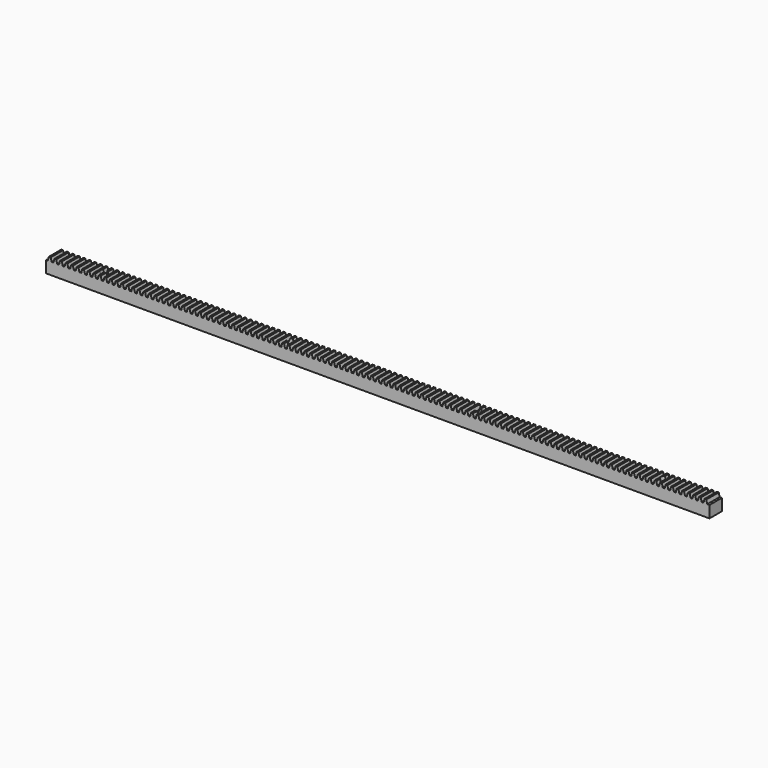
from build123d import *

# Parameters (mm, degrees)
F0_W     = 19.05
F0_H     = 14.5034
F1_DEPTH = 406.4
F3_DEPTH = 19.05
F5_D     = 7.9375


with BuildPart() as f1:
    # F0 (on Right) → F1 (new body, symmetric)
    with BuildSketch(Plane.YZ):
        Rectangle(F0_W, F0_H)
    extrude(amount=F1_DEPTH, both=True)

    # F2 (on face) → F3 (join)
    with BuildSketch(Plane.XZ.offset(9.525)):
        Polygon((-404.1648, 7.2517), (-399.5928, 7.2517), (-400.7612, 11.8237), (-402.9964, 11.8237), align=None)
        Polygon((-397.3576, 7.2517), (-392.7856, 7.2517), (-393.954, 11.8237), (-396.1892, 11.8237), align=None)
        Polygon((-390.5504, 7.2517), (-385.9784, 7.2517), (-387.1468, 11.8237), (-389.382, 11.8237), align=None)
        Polygon((-383.7432, 7.2517), (-379.1712, 7.2517), (-380.3396, 11.8237), (-382.5748, 11.8237), align=None)
        Polygon((-376.936, 7.2517), (-372.364, 7.2517), (-373.5324, 11.8237), (-375.7676, 11.8237), align=None)
        Polygon((-370.1288, 7.2517), (-365.5568, 7.2517), (-366.7252, 11.8237), (-368.9604, 11.8237), align=None)
        Polygon((-363.3216, 7.2517), (-358.7496, 7.2517), (-359.918, 11.8237), (-362.1532, 11.8237), align=None)
        Polygon((-356.5144, 7.2517), (-351.9424, 7.2517), (-353.1108, 11.8237), (-355.346, 11.8237), align=None)
        Polygon((-349.7072, 7.2517), (-345.1352, 7.2517), (-346.3036, 11.8237), (-348.5388, 11.8237), align=None)
        Polygon((-342.9, 7.2517), (-338.328, 7.2517), (-339.4964, 11.8237), (-341.7316, 11.8237), align=None)
        Polygon((-336.0928, 7.2517), (-331.5208, 7.2517), (-332.6892, 11.8237), (-334.9244, 11.8237), align=None)
        Polygon((-329.2856, 7.2517), (-324.7136, 7.2517), (-325.882, 11.8237), (-328.1172, 11.8237), align=None)
        Polygon((-322.4784, 7.2517), (-317.9064, 7.2517), (-319.0748, 11.8237), (-321.31, 11.8237), align=None)
        Polygon((-315.6712, 7.2517), (-311.0992, 7.2517), (-312.2676, 11.8237), (-314.5028, 11.8237), align=None)
        Polygon((-308.864, 7.2517), (-304.292, 7.2517), (-305.4604, 11.8237), (-307.6956, 11.8237), align=None)
        Polygon((-302.0568, 7.2517), (-297.4848, 7.2517), (-298.6532, 11.8237), (-300.8884, 11.8237), align=None)
        Polygon((-295.2496, 7.2517), (-290.6776, 7.2517), (-291.846, 11.8237), (-294.0812, 11.8237), align=None)
        Polygon((-288.4424, 7.2517), (-283.8704, 7.2517), (-285.0388, 11.8237), (-287.274, 11.8237), align=None)
        Polygon((-281.6352, 7.2517), (-277.0632, 7.2517), (-278.2316, 11.8237), (-280.4668, 11.8237), align=None)
        Polygon((-274.828, 7.2517), (-270.256, 7.2517), (-271.4244, 11.8237), (-273.6596, 11.8237), align=None)
        Polygon((-268.0208, 7.2517), (-263.4488, 7.2517), (-264.6172, 11.8237), (-266.8524, 11.8237), align=None)
        Polygon((-261.2136, 7.2517), (-256.6416, 7.2517), (-257.81, 11.8237), (-260.0452, 11.8237), align=None)
        Polygon((-254.4064, 7.2517), (-249.8344, 7.2517), (-251.0028, 11.8237), (-253.238, 11.8237), align=None)
        Polygon((-247.5992, 7.2517), (-243.0272, 7.2517), (-244.1956, 11.8237), (-246.4308, 11.8237), align=None)
        Polygon((-240.792, 7.2517), (-236.22, 7.2517), (-237.3884, 11.8237), (-239.6236, 11.8237), align=None)
        Polygon((-233.9848, 7.2517), (-229.4128, 7.2517), (-230.5812, 11.8237), (-232.8164, 11.8237), align=None)
        Polygon((-227.1776, 7.2517), (-222.6056, 7.2517), (-223.774, 11.8237), (-226.0092, 11.8237), align=None)
        Polygon((-220.3704, 7.2517), (-215.7984, 7.2517), (-216.9668, 11.8237), (-219.202, 11.8237), align=None)
        Polygon((-213.5632, 7.2517), (-208.9912, 7.2517), (-210.1596, 11.8237), (-212.3948, 11.8237), align=None)
        Polygon((-206.756, 7.2517), (-202.184, 7.2517), (-203.3524, 11.8237), (-205.5876, 11.8237), align=None)
        Polygon((-199.9488, 7.2517), (-195.3768, 7.2517), (-196.5452, 11.8237), (-198.7804, 11.8237), align=None)
        Polygon((-193.1416, 7.2517), (-188.5696, 7.2517), (-189.738, 11.8237), (-191.9732, 11.8237), align=None)
        Polygon((-186.3344, 7.2517), (-181.7624, 7.2517), (-182.9308, 11.8237), (-185.166, 11.8237), align=None)
        Polygon((-179.5272, 7.2517), (-174.9552, 7.2517), (-176.1236, 11.8237), (-178.3588, 11.8237), align=None)
        Polygon((-172.72, 7.2517), (-168.148, 7.2517), (-169.3164, 11.8237), (-171.5516, 11.8237), align=None)
        Polygon((-165.9128, 7.2517), (-161.3408, 7.2517), (-162.5092, 11.8237), (-164.7444, 11.8237), align=None)
        Polygon((-159.1056, 7.2517), (-154.5336, 7.2517), (-155.702, 11.8237), (-157.9372, 11.8237), align=None)
        Polygon((-152.2984, 7.2517), (-147.7264, 7.2517), (-148.8948, 11.8237), (-151.13, 11.8237), align=None)
        Polygon((-145.4912, 7.2517), (-140.9192, 7.2517), (-142.0876, 11.8237), (-144.3228, 11.8237), align=None)
        Polygon((-138.684, 7.2517), (-134.112, 7.2517), (-135.2804, 11.8237), (-137.5156, 11.8237), align=None)
        Polygon((-131.8768, 7.2517), (-127.3048, 7.2517), (-128.4732, 11.8237), (-130.7084, 11.8237), align=None)
        Polygon((-125.0696, 7.2517), (-120.4976, 7.2517), (-121.666, 11.8237), (-123.9012, 11.8237), align=None)
        Polygon((-118.2624, 7.2517), (-113.6904, 7.2517), (-114.8588, 11.8237), (-117.094, 11.8237), align=None)
        Polygon((-111.4552, 7.2517), (-106.8832, 7.2517), (-108.0516, 11.8237), (-110.2868, 11.8237), align=None)
        Polygon((-104.648, 7.2517), (-100.076, 7.2517), (-101.2444, 11.8237), (-103.4796, 11.8237), align=None)
        Polygon((-97.8408, 7.2517), (-93.2688, 7.2517), (-94.4372, 11.8237), (-96.6724, 11.8237), align=None)
        Polygon((-91.0336, 7.2517), (-86.4616, 7.2517), (-87.63, 11.8237), (-89.8652, 11.8237), align=None)
        Polygon((-84.2264, 7.2517), (-79.6544, 7.2517), (-80.8228, 11.8237), (-83.058, 11.8237), align=None)
        Polygon((-77.4192, 7.2517), (-72.8472, 7.2517), (-74.0156, 11.8237), (-76.2508, 11.8237), align=None)
        Polygon((-70.612, 7.2517), (-66.04, 7.2517), (-67.2084, 11.8237), (-69.4436, 11.8237), align=None)
        Polygon((-63.8048, 7.2517), (-59.2328, 7.2517), (-60.4012, 11.8237), (-62.6364, 11.8237), align=None)
        Polygon((-56.9976, 7.2517), (-52.4256, 7.2517), (-53.594, 11.8237), (-55.8292, 11.8237), align=None)
        Polygon((-50.1904, 7.2517), (-45.6184, 7.2517), (-46.7868, 11.8237), (-49.022, 11.8237), align=None)
        Polygon((-43.3832, 7.2517), (-38.8112, 7.2517), (-39.9796, 11.8237), (-42.2148, 11.8237), align=None)
        Polygon((-36.576, 7.2517), (-32.004, 7.2517), (-33.1724, 11.8237), (-35.4076, 11.8237), align=None)
        Polygon((-29.7688, 7.2517), (-25.1968, 7.2517), (-26.3652, 11.8237), (-28.6004, 11.8237), align=None)
        Polygon((-22.9616, 7.2517), (-18.3896, 7.2517), (-19.558, 11.8237), (-21.7932, 11.8237), align=None)
        Polygon((-16.1544, 7.2517), (-11.5824, 7.2517), (-12.7508, 11.8237), (-14.986, 11.8237), align=None)
        Polygon((-9.3472, 7.2517), (-4.7752, 7.2517), (-5.9436, 11.8237), (-8.1788, 11.8237), align=None)
        Polygon((-2.54, 7.2517), (2.032, 7.2517), (0.8636, 11.8237), (-1.3716, 11.8237), align=None)
        Polygon((4.2672, 7.2517), (8.8392, 7.2517), (7.6708, 11.8237), (5.4356, 11.8237), align=None)
        Polygon((11.0744, 7.2517), (15.6464, 7.2517), (14.478, 11.8237), (12.2428, 11.8237), align=None)
        Polygon((17.8816, 7.2517), (22.4536, 7.2517), (21.2852, 11.8237), (19.05, 11.8237), align=None)
        Polygon((24.6888, 7.2517), (29.2608, 7.2517), (28.0924, 11.8237), (25.8572, 11.8237), align=None)
        Polygon((31.496, 7.2517), (36.068, 7.2517), (34.8996, 11.8237), (32.6644, 11.8237), align=None)
        Polygon((38.3032, 7.2517), (42.8752, 7.2517), (41.7068, 11.8237), (39.4716, 11.8237), align=None)
        Polygon((45.1104, 7.2517), (49.6824, 7.2517), (48.514, 11.8237), (46.2788, 11.8237), align=None)
        Polygon((51.9176, 7.2517), (56.4896, 7.2517), (55.3212, 11.8237), (53.086, 11.8237), align=None)
        Polygon((58.7248, 7.2517), (63.2968, 7.2517), (62.1284, 11.8237), (59.8932, 11.8237), align=None)
        Polygon((65.532, 7.2517), (70.104, 7.2517), (68.9356, 11.8237), (66.7004, 11.8237), align=None)
        Polygon((72.3392, 7.2517), (76.9112, 7.2517), (75.7428, 11.8237), (73.5076, 11.8237), align=None)
        Polygon((79.1464, 7.2517), (83.7184, 7.2517), (82.55, 11.8237), (80.3148, 11.8237), align=None)
        Polygon((85.9536, 7.2517), (90.5256, 7.2517), (89.3572, 11.8237), (87.122, 11.8237), align=None)
        Polygon((92.7608, 7.2517), (97.3328, 7.2517), (96.1644, 11.8237), (93.9292, 11.8237), align=None)
        Polygon((99.568, 7.2517), (104.14, 7.2517), (102.9716, 11.8237), (100.7364, 11.8237), align=None)
        Polygon((106.3752, 7.2517), (110.9472, 7.2517), (109.7788, 11.8237), (107.5436, 11.8237), align=None)
        Polygon((113.1824, 7.2517), (117.7544, 7.2517), (116.586, 11.8237), (114.3508, 11.8237), align=None)
        Polygon((119.9896, 7.2517), (124.5616, 7.2517), (123.3932, 11.8237), (121.158, 11.8237), align=None)
        Polygon((126.7968, 7.2517), (131.3688, 7.2517), (130.2004, 11.8237), (127.9652, 11.8237), align=None)
        Polygon((133.604, 7.2517), (138.176, 7.2517), (137.0076, 11.8237), (134.7724, 11.8237), align=None)
        Polygon((140.4112, 7.2517), (144.9832, 7.2517), (143.8148, 11.8237), (141.5796, 11.8237), align=None)
        Polygon((147.2184, 7.2517), (151.7904, 7.2517), (150.622, 11.8237), (148.3868, 11.8237), align=None)
        Polygon((154.0256, 7.2517), (158.5976, 7.2517), (157.4292, 11.8237), (155.194, 11.8237), align=None)
        Polygon((160.8328, 7.2517), (165.4048, 7.2517), (164.2364, 11.8237), (162.0012, 11.8237), align=None)
        Polygon((167.64, 7.2517), (172.212, 7.2517), (171.0436, 11.8237), (168.8084, 11.8237), align=None)
        Polygon((174.4472, 7.2517), (179.0192, 7.2517), (177.8508, 11.8237), (175.6156, 11.8237), align=None)
        Polygon((181.2544, 7.2517), (185.8264, 7.2517), (184.658, 11.8237), (182.4228, 11.8237), align=None)
        Polygon((188.0616, 7.2517), (192.6336, 7.2517), (191.4652, 11.8237), (189.23, 11.8237), align=None)
        Polygon((194.8688, 7.2517), (199.4408, 7.2517), (198.2724, 11.8237), (196.0372, 11.8237), align=None)
        Polygon((201.676, 7.2517), (206.248, 7.2517), (205.0796, 11.8237), (202.8444, 11.8237), align=None)
        Polygon((208.4832, 7.2517), (213.0552, 7.2517), (211.8868, 11.8237), (209.6516, 11.8237), align=None)
        Polygon((215.2904, 7.2517), (219.8624, 7.2517), (218.694, 11.8237), (216.4588, 11.8237), align=None)
        Polygon((222.0976, 7.2517), (226.6696, 7.2517), (225.5012, 11.8237), (223.266, 11.8237), align=None)
        Polygon((228.9048, 7.2517), (233.4768, 7.2517), (232.3084, 11.8237), (230.0732, 11.8237), align=None)
        Polygon((235.712, 7.2517), (240.284, 7.2517), (239.1156, 11.8237), (236.8804, 11.8237), align=None)
        Polygon((242.5192, 7.2517), (247.0912, 7.2517), (245.9228, 11.8237), (243.6876, 11.8237), align=None)
        Polygon((249.3264, 7.2517), (253.8984, 7.2517), (252.73, 11.8237), (250.4948, 11.8237), align=None)
        Polygon((256.1336, 7.2517), (260.7056, 7.2517), (259.5372, 11.8237), (257.302, 11.8237), align=None)
        Polygon((262.9408, 7.2517), (267.5128, 7.2517), (266.3444, 11.8237), (264.1092, 11.8237), align=None)
        Polygon((269.748, 7.2517), (274.32, 7.2517), (273.1516, 11.8237), (270.9164, 11.8237), align=None)
        Polygon((276.5552, 7.2517), (281.1272, 7.2517), (279.9588, 11.8237), (277.7236, 11.8237), align=None)
        Polygon((283.3624, 7.2517), (287.9344, 7.2517), (286.766, 11.8237), (284.5308, 11.8237), align=None)
        Polygon((290.1696, 7.2517), (294.7416, 7.2517), (293.5732, 11.8237), (291.338, 11.8237), align=None)
        Polygon((296.9768, 7.2517), (301.5488, 7.2517), (300.3804, 11.8237), (298.1452, 11.8237), align=None)
        Polygon((303.784, 7.2517), (308.356, 7.2517), (307.1876, 11.8237), (304.9524, 11.8237), align=None)
        Polygon((310.5912, 7.2517), (315.1632, 7.2517), (313.9948, 11.8237), (311.7596, 11.8237), align=None)
        Polygon((317.3984, 7.2517), (321.9704, 7.2517), (320.802, 11.8237), (318.5668, 11.8237), align=None)
        Polygon((324.2056, 7.2517), (328.7776, 7.2517), (327.6092, 11.8237), (325.374, 11.8237), align=None)
        Polygon((331.0128, 7.2517), (335.5848, 7.2517), (334.4164, 11.8237), (332.1812, 11.8237), align=None)
        Polygon((337.82, 7.2517), (342.392, 7.2517), (341.2236, 11.8237), (338.9884, 11.8237), align=None)
        Polygon((344.6272, 7.2517), (349.1992, 7.2517), (348.0308, 11.8237), (345.7956, 11.8237), align=None)
        Polygon((351.4344, 7.2517), (356.0064, 7.2517), (354.838, 11.8237), (352.6028, 11.8237), align=None)
        Polygon((358.2416, 7.2517), (362.8136, 7.2517), (361.6452, 11.8237), (359.41, 11.8237), align=None)
        Polygon((365.0488, 7.2517), (369.6208, 7.2517), (368.4524, 11.8237), (366.2172, 11.8237), align=None)
        Polygon((371.856, 7.2517), (376.428, 7.2517), (375.2596, 11.8237), (373.0244, 11.8237), align=None)
        Polygon((378.6632, 7.2517), (383.2352, 7.2517), (382.0668, 11.8237), (379.8316, 11.8237), align=None)
        Polygon((385.4704, 7.2517), (390.0424, 7.2517), (388.874, 11.8237), (386.6388, 11.8237), align=None)
        Polygon((392.2776, 7.2517), (396.8496, 7.2517), (395.6812, 11.8237), (393.446, 11.8237), align=None)
        Polygon((399.0848, 7.2517), (403.6568, 7.2517), (402.4884, 11.8237), (400.2532, 11.8237), align=None)
    extrude(amount=-F3_DEPTH)

    # F5 (through all)
    with Locations(Plane(origin=(0, 0, -7.2517), x_dir=(1, 0, 0), z_dir=(0, 0, -1))):
        with Locations((-342.9, 0), (-114.3, 0), (114.3, 0), (342.9, 0)):
            Hole(F5_D / 2)


solid = f1.part
